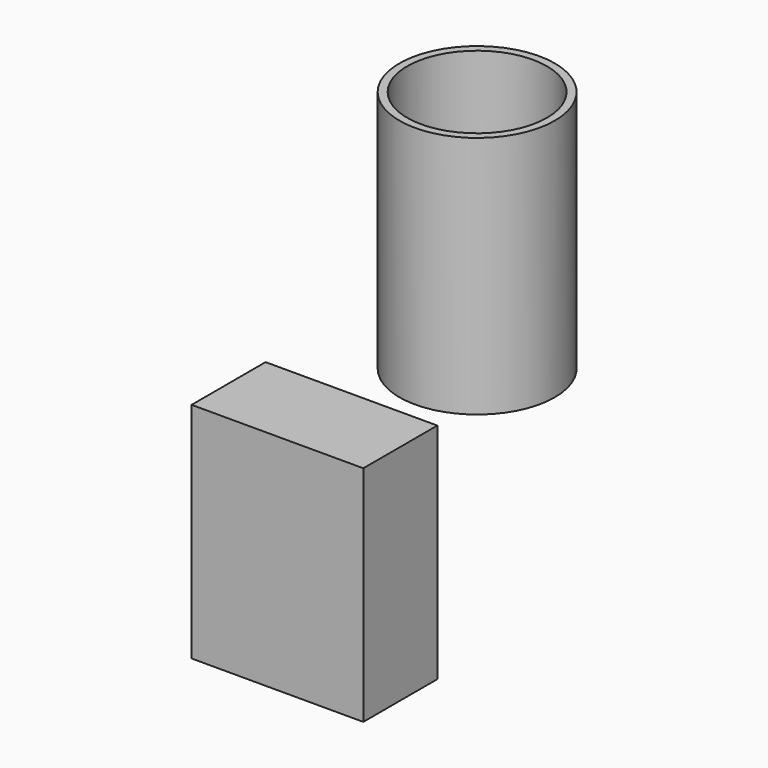
from build123d import *

# Parameters (mm, degrees)
F0_W     = 55.9377968311
F0_H     = 30.1342457533
F1_DEPTH = 72.7439746261
F2_R     = 22.7648481722
F3_DEPTH = 76.7965465784
F4_T     = 2.54


with BuildPart() as f1:
    # F0 (on Top) → F1 (new body)
    with BuildSketch(Plane.XY):
        with Locations((27.9688984156, -15.0671228766)):
            Rectangle(F0_W, F0_H)
    extrude(amount=F1_DEPTH)


with BuildPart() as f3:
    # F2 (on face) → F3 (new body)
    with BuildSketch(Plane.XY.offset(72.7439746261)):
        with Locations((41.2202887237, 34.6016958356)):
            Circle(F2_R)
    extrude(amount=F3_DEPTH)

    # F4
    f4_openings = [f3.faces().sort_by_distance(p)[0] for p in [
        (41.220289, 34.601696, 149.540521),
    ]]
    offset(amount=F4_T, openings=f4_openings, kind=Kind.INTERSECTION)


solid = Compound([f1.part, f3.part])
